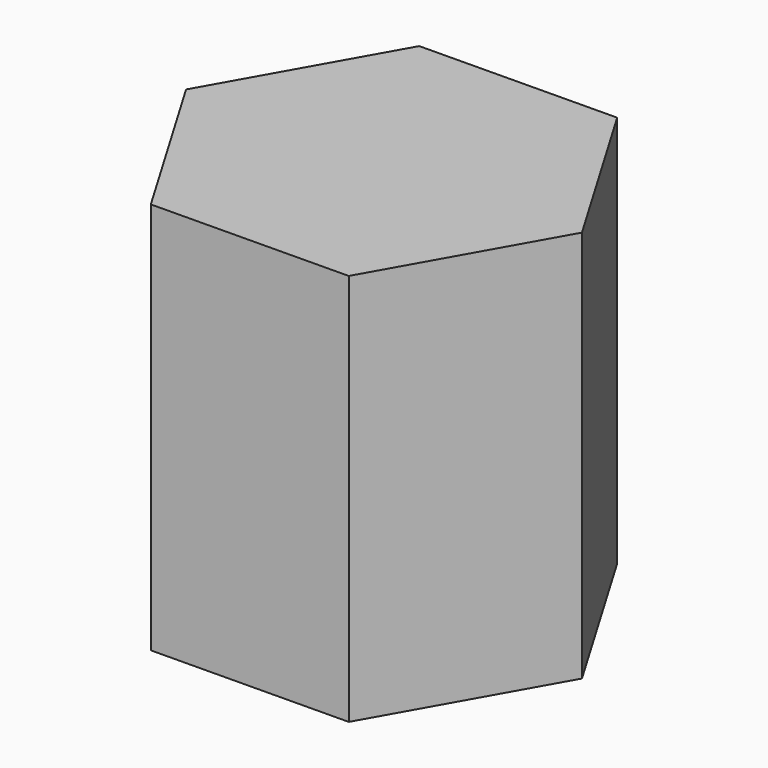
from build123d import *

# Parameters (mm, degrees)
PAD_DEPTH = 4


with BuildPart() as part:
    # Sketch001 → Pad (new body)
    with BuildSketch(Plane.XY):
        Polygon((-6.011056, 3.142476), (-5.029388, 4.884982), (-6.04761, 6.606384), (-8.047498, 6.58528), (-9.029166, 4.842773), (-8.010944, 3.121371), align=None)
    extrude(amount=PAD_DEPTH)


solid = part.part
